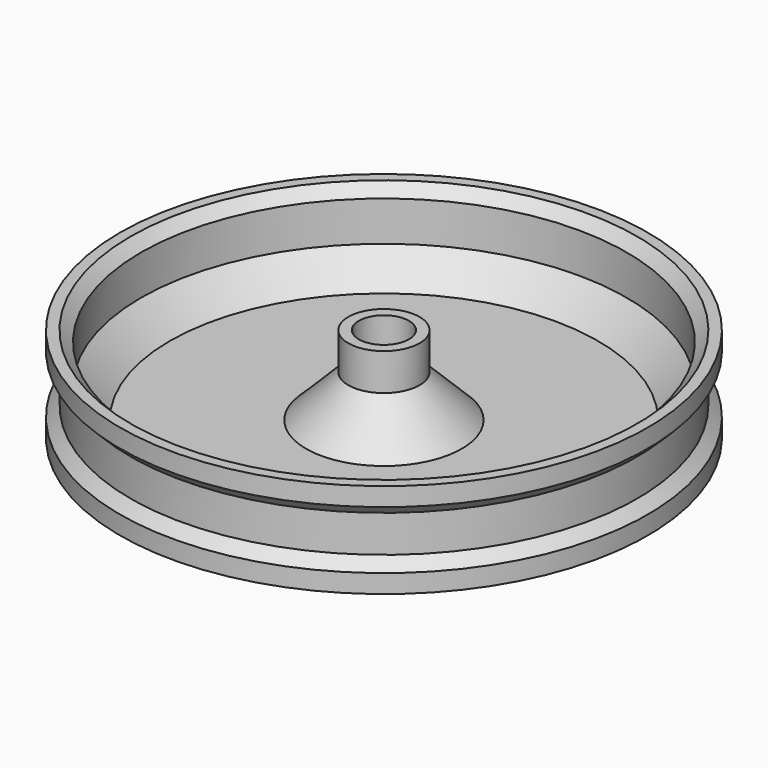
from build123d import *


with BuildPart() as f1:
    # F0 (on Front) → F1 (revolve)
    with BuildSketch(Plane.XZ):
        Polygon((-4.75, -9), (-4.75, 9), (-6.75, 9), (-6.75, 2), (-14.75, -6), (-40.555738, -6), (-46, -0.555738), (-46, 7), (-48, 9), (-50, 9), (-50, 5.5), (-48, 3.5), (-48, 0), (-48, -3.5), (-50, -5.5), (-50, -9), (-44.798379, -9), (-43.798379, -8), (-42.798379, -8), (-41.798379, -9), (-34.798379, -9), (-33.798379, -8), (-32.798379, -8), (-31.798379, -9), (-24.798379, -9), (-23.798379, -8), (-22.798379, -8), (-21.798379, -9), (-14.798379, -9), (-13.798379, -8), (-12.798379, -8), (-11.798379, -9), align=None)
    revolve(axis=Axis((0, 0, 0), (0, 0, -1)))


solid = f1.part
